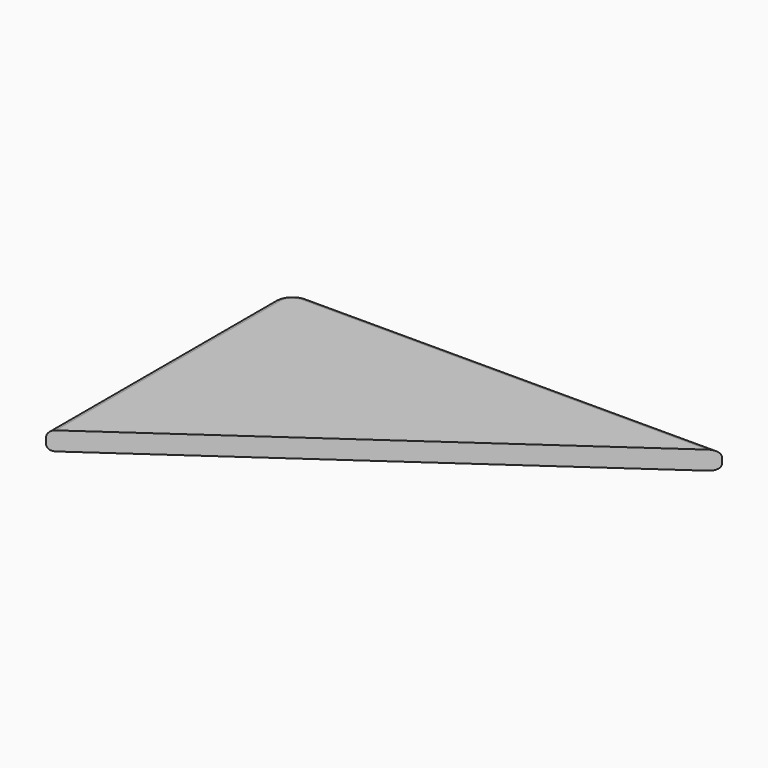
from build123d import *

# Parameters (mm, degrees)
PAD001_DEPTH = 0.3
FILLET004_R  = 0.1
FILLET005_R  = 0.1


with BuildPart() as part:
    # Sketch002 → Pad001 (new body)
    with BuildSketch(Plane.XY):
        with BuildLine():
            Line((0, 11.098547), (7, 16))
            Line((7, 16), (0.3, 16))
            ThreePointArc((0.3, 16), (0.087868, 15.912132), (0, 15.7))
            Line((0, 11.098547), (0, 15.7))
        make_face()
    extrude(amount=PAD001_DEPTH)

    # Fillet004
    fillet004_edges = [part.edges().sort_by_distance(p)[0] for p in [
        (0, 13.399274, 0.3),
        (0.087868, 15.912132, 0.3),
        (3.65, 16, 0.3),
    ]]
    fillet(fillet004_edges, radius=FILLET004_R)

    # Fillet005
    fillet005_edges = [part.edges().sort_by_distance(p)[0] for p in [
        (0, 13.399274, 0),
        (0.087868, 15.912132, 0),
        (3.65, 16, 0),
    ]]
    fillet(fillet005_edges, radius=FILLET005_R)


solid = part.part
